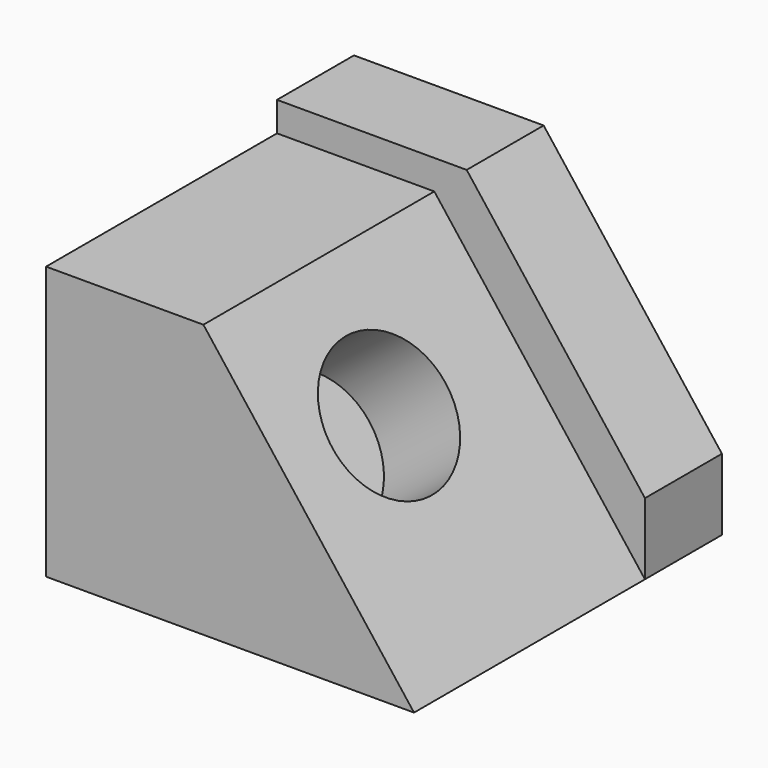
from build123d import *

# Parameters (mm, degrees)
F1_DEPTH = 76.2
F2_DEPTH = 25.4
F3_R     = 18.658433191
F4_DEPTH = 25.4


with BuildPart() as f1:
    # F0 (on Front) → F1 (new body)
    with BuildSketch(Plane.XZ):
        Polygon((-7.0377709532, 32.1391718601), (-48.5718883574, 32.1391718601), (-48.5718883574, -39.9264059961), (48.5718883574, -39.9264059961), align=None)
    extrude(amount=F1_DEPTH)

    # F0 (on Front) → F2 (join)
    with BuildSketch(Plane.XZ):
        Polygon((48.5718883574, -21.0635364056), (1.5087825138, 39.9264059961), (-48.5718883574, 39.9264059961), (-48.5718883574, 32.1391718601), (-7.0377709532, 32.1391718601), (48.5718883574, -39.9264059961), align=None)
        Polygon((-7.0377709532, 32.1391718601), (-48.5718883574, 32.1391718601), (-48.5718883574, -39.9264059961), (48.5718883574, -39.9264059961), align=None)
    extrude(amount=-F2_DEPTH)

    # F3 (on face) → F4 (cut)
    with BuildSketch(Plane(origin=(11.1332502223, 0, 8.5910121073), x_dir=(0, 1, 0), z_dir=(0.7916961056, 0, 0.6109151139))):
        with Locations((-41.9644452631, -5.6286053732)):
            Circle(F3_R)
    extrude(amount=-F4_DEPTH, mode=Mode.SUBTRACT)


solid = f1.part
